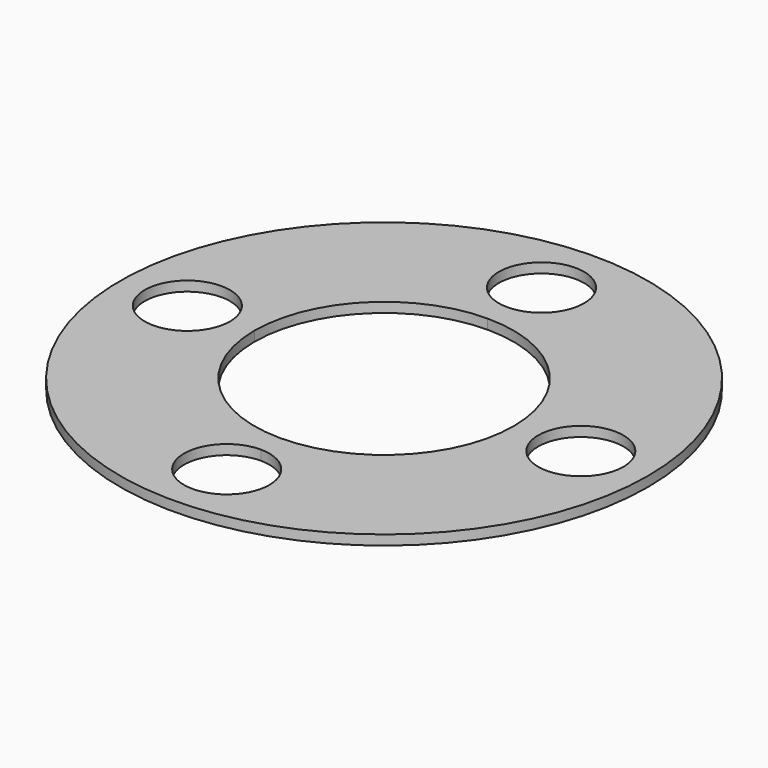
from build123d import *

# Parameters (mm, degrees)
F0_R     = 8.05
F0_R_2   = 1.3
F1_DEPTH = 0.3


with BuildPart() as f1:
    # F0 (on Top) → F1 (new body)
    with BuildSketch(Plane.XY):
        Circle(F0_R)
        with BuildLine():
            ThreePointArc((1.3, -6), (-0.919239, -6.919239), (0, -4.7))
            ThreePointArc((0, -4.7), (0.919239, -5.080761), (1.3, -6))
        make_face(mode=Mode.SUBTRACT)
        with Locations((-6, 0)):
            Circle(F0_R_2, mode=Mode.SUBTRACT)
        with BuildLine():
            ThreePointArc((0, -3.95), (-2.793072, -2.793072), (-3.95, 0))
            ThreePointArc((-3.95, 0), (-2.793072, 2.793072), (0, 3.95))
            ThreePointArc((0, 3.95), (2.793072, 2.793072), (3.95, 0))
            ThreePointArc((3.95, 0), (2.793072, -2.793072), (0, -3.95))
        make_face(mode=Mode.SUBTRACT)
        with BuildLine():
            ThreePointArc((7.3, 0), (6, -1.3), (4.7, 0))
            ThreePointArc((4.7, 0), (6, 1.3), (7.3, 0))
        make_face(mode=Mode.SUBTRACT)
        with BuildLine():
            ThreePointArc((1.3, 6), (0.919239, 5.080761), (0, 4.7))
            ThreePointArc((0, 4.7), (-0.919239, 6.919239), (1.3, 6))
        make_face(mode=Mode.SUBTRACT)
    extrude(amount=F1_DEPTH)


solid = f1.part
